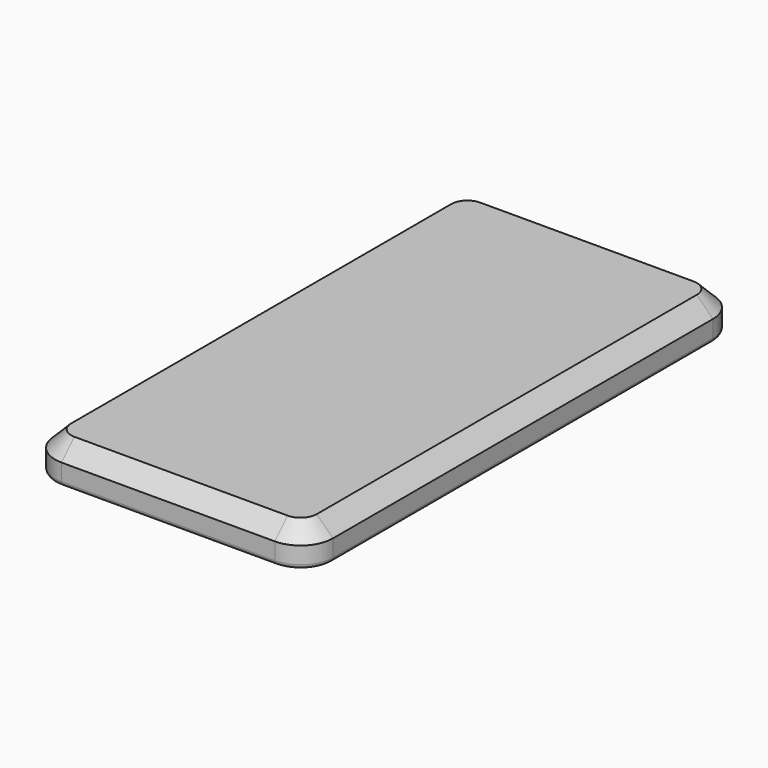
from build123d import *

# Parameters (mm, degrees)
F1_DEPTH = 9.2
F2_SIZE  = 4
F3_R     = 1


with BuildPart() as f1:
    # F0 (on Top) → F1 (new body)
    with BuildSketch(Plane.XY):
        with BuildLine():
            Line((26.5, 67), (-26.5, 67))
            ThreePointArc((-26.5, 67), (-32.156854, 64.656854), (-34.5, 59))
            Line((-34.5, 59), (-34.5, -59))
            ThreePointArc((-34.5, -59), (-32.156854, -64.656854), (-26.5, -67))
            Line((-26.5, -67), (26.5, -67))
            ThreePointArc((26.5, -67), (32.156854, -64.656854), (34.5, -59))
            Line((34.5, -59), (34.5, 59))
            ThreePointArc((34.5, 59), (32.156854, 64.656854), (26.5, 67))
        make_face()
    extrude(amount=F1_DEPTH)

    # F2
    f2_edges = [f1.edges().sort_by_distance(p)[0] for p in [
        (-34.5, 0, 9.2),
    ]]
    chamfer(f2_edges, length=F2_SIZE)

    # F3
    f3_edges = [f1.edges().sort_by_distance(p)[0] for p in [
        (34.5, 0, 0),
    ]]
    fillet(f3_edges, radius=F3_R)


solid = f1.part
